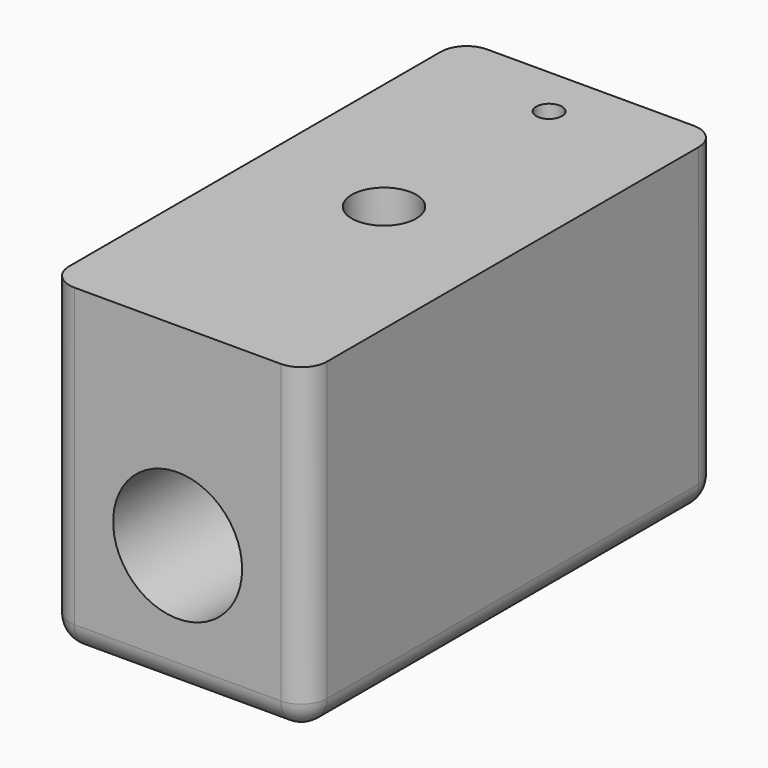
from build123d import *

# Parameters (mm, degrees)
F0_W     = 50.8
F0_H     = 101.6
F1_DEPTH = 63.5
F2_R     = 12.7
F3_DEPTH = 96.52
F4_R     = 2.54
F5_DEPTH = 36.322
F6_R     = 6.35
F7_DEPTH = 12.7
F8_R     = 5.08


with BuildPart() as f1:
    # F0 (on Top) → F1 (new body)
    with BuildSketch(Plane.XY):
        Rectangle(F0_W, F0_H)
    extrude(amount=F1_DEPTH)

    # F2 (on face) → F3 (cut)
    with BuildSketch(Plane.XZ.offset(50.8)):
        with Locations((0, 25.4)):
            Circle(F2_R)
    extrude(amount=-F3_DEPTH, mode=Mode.SUBTRACT)

    # F4 (on face) → F5 (cut)
    with BuildSketch(Plane.XY.offset(63.5)):
        with Locations((0, 40.64)):
            Circle(F4_R)
    extrude(amount=-F5_DEPTH, mode=Mode.SUBTRACT)

    # F6 (on face) → F7 (cut)
    with BuildSketch(Plane.XY.offset(63.5)):
        Circle(F6_R)
    extrude(amount=-F7_DEPTH, mode=Mode.SUBTRACT)

    # F8
    f8_edges = [f1.edges().sort_by_distance(p)[0] for p in [
        (25.4, -50.8, 31.75),
        (-25.4, -50.8, 31.75),
        (-25.4, 50.8, 31.75),
        (-25.4, 0, 0),
        (0, 50.8, 0),
        (25.4, 50.8, 31.75),
        (25.4, 0, 0),
        (0, -50.8, 0),
    ]]
    fillet(f8_edges, radius=F8_R)


solid = f1.part
